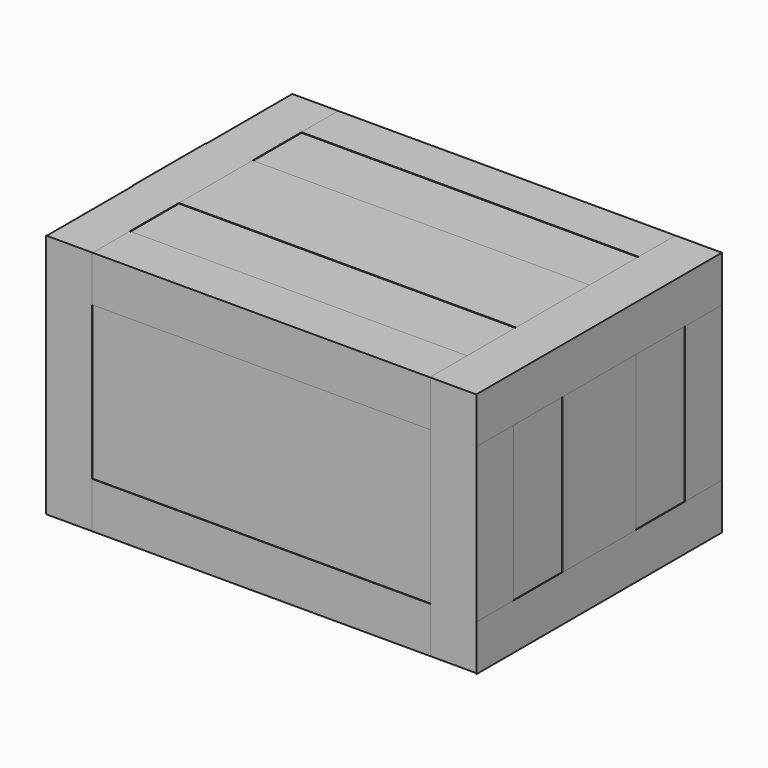
from build123d import *

# Parameters (mm, degrees)
F0_W      = 355.6
F0_H      = 254
F1_DEPTH  = 203.2
F2_W      = 355.6
F2_H      = 0.79375
F3_DEPTH  = 3.9624
F4_W      = 355.6
F4_H      = 0.79375
F5_DEPTH  = 3.9624
F7_DEPTH  = 0.508
F8_W      = 76.2
F8_H      = 203.2508
F9_DEPTH  = 0.508
F10_W     = 246.0752
F10_H     = 0.79375
F11_DEPTH = 355.601
F12_W     = 355.6
F12_H     = 38.1
F13_DEPTH = 0.508
F14_W     = 38.1
F14_H     = 254
F15_DEPTH = 0.508
F17_W     = 38.1
F17_H     = 203.3016
F18_DEPTH = 0.508
F19_W     = 254
F19_H     = 38.1
F20_DEPTH = 0.508
F21_W     = 355.7016
F21_H     = 38.1
F22_DEPTH = 0.508
F23_W     = 38.1
F23_H     = 203.3016
F24_DEPTH = 0.508


with BuildPart() as f1:
    # F0 (on Top) → F1 (new body)
    with BuildSketch(Plane.XY):
        Rectangle(F0_W, F0_H)
    extrude(amount=F1_DEPTH)

    # F2 (on face) → F3 (cut)
    with BuildSketch(Plane.XY.offset(203.2)):
        Rectangle(F2_W, F2_H)
    extrude(amount=-F3_DEPTH, mode=Mode.SUBTRACT)

    # F4 (on face) → F5 (cut)
    with BuildSketch(Plane(origin=(0, 0, 0), x_dir=(1, 0, 0), z_dir=(0, 0, -1))):
        Rectangle(F4_W, F4_H)
    extrude(amount=-F5_DEPTH, mode=Mode.SUBTRACT)

    # F10 (on face) → F11 (cut, through all)
    with BuildSketch(Plane.YZ.offset(177.8)):
        with Locations((0, 198.840725)):
            Rectangle(F10_W, F10_H)
        with Locations((0, 4.359275)):
            Rectangle(F10_W, F10_H)
    extrude(amount=-F11_DEPTH, mode=Mode.SUBTRACT)


with BuildPart() as f7:
    # F6 (on face) → F7 (new body)
    with BuildSketch(Plane.XY.offset(203.2)):
        Polygon((139.7, -38.1), (177.8, -38.1), (177.8, 38.1), (139.7, 38.1), (-139.7, 38.1), (-177.8, 38.1), (-177.8, -38.1), (-139.7, -38.1), align=None)
    extrude(amount=F7_DEPTH)


with BuildPart() as f9:
    # F8 (on face) → F9 (new body)
    with BuildSketch(Plane.YZ.offset(177.8)):
        with Locations((0, 102.0826)):
            Rectangle(F8_W, F8_H)
    extrude(amount=F9_DEPTH)


with BuildPart() as f13:
    # F12 (on face) → F13 (new body)
    with BuildSketch(Plane.XY.offset(203.2)):
        with Locations((0, -107.95)):
            Rectangle(F12_W, F12_H)
        with Locations((0, 107.95)):
            Rectangle(F12_W, F12_H)
    extrude(amount=F13_DEPTH)


with BuildPart() as f15:
    # F14 (on face) → F15 (new body)
    with BuildSketch(Plane.XY.offset(203.2)):
        with Locations((-158.75, 0)):
            Rectangle(F14_W, F14_H)
        with Locations((158.75, 0)):
            Rectangle(F14_W, F14_H)
    extrude(amount=F15_DEPTH)


with BuildPart() as f16_1:
    # F16: instance of F9
    add(f9.part.mirror(Plane.YZ))


with BuildPart() as f18:
    # F17 (on face) → F18 (new body)
    with BuildSketch(Plane.YZ.offset(177.8)):
        with Locations((-107.95, 102.0572)):
            Rectangle(F17_W, F17_H)
        with Locations((107.95, 102.0572)):
            Rectangle(F17_W, F17_H)
    extrude(amount=F18_DEPTH)


with BuildPart() as f20:
    # F19 (on face) → F20 (new body)
    with BuildSketch(Plane.YZ.offset(177.8)):
        with Locations((0, 184.658)):
            Rectangle(F19_W, F19_H)
        with Locations((0, 18.542)):
            Rectangle(F19_W, F19_H)
    extrude(amount=F20_DEPTH)


with BuildPart() as f22:
    # F21 (on face) → F22 (new body)
    with BuildSketch(Plane.XZ.offset(127)):
        with Locations((0.4572, 184.658)):
            Rectangle(F21_W, F21_H)
        with Locations((0.4572, 19.4564)):
            Rectangle(F21_W, F21_H)
    extrude(amount=F22_DEPTH)


with BuildPart() as f24:
    # F23 (on face) → F24 (new body)
    with BuildSketch(Plane.XZ.offset(127)):
        with Locations((159.258, 102.0572)):
            Rectangle(F23_W, F23_H)
        with Locations((-159.258, 102.0572)):
            Rectangle(F23_W, F23_H)
    extrude(amount=F24_DEPTH)


solid = Compound([f1.part, f7.part, f9.part, f13.part, f15.part, f16_1.part, f18.part, f20.part, f22.part, f24.part])
